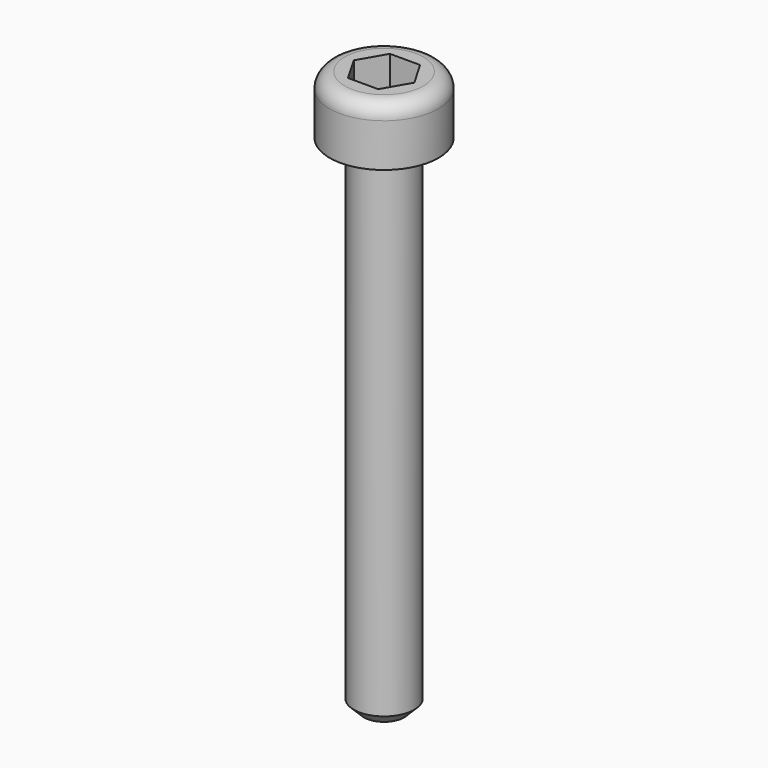
from build123d import *

# Parameters (mm, degrees)
F3_DEPTH = 1.8
F4_R     = 0.75
F5_SIZE  = 0.5


with BuildPart() as f1:
    # F0 (on Front) → F1 (revolve)
    with BuildSketch(Plane.XZ):
        Polygon((0, 27.9), (0, 0), (1.5, 0), (1.5, 25), (2.7, 25), (2.7, 27.9), align=None)
    revolve(axis=Axis((0, 0, 13.95), (0, 0, 1)))

    # F2 (on face) → F3 (cut)
    with BuildSketch(Plane.XY.offset(27.9)):
        Polygon((0.750555, 1.3), (-0.750555, 1.3), (-1.501111, 0), (-0.750555, -1.3), (0.750555, -1.3), (1.501111, 0), align=None)
    extrude(amount=-F3_DEPTH, mode=Mode.SUBTRACT)

    # F4
    f4_edges = [f1.edges().sort_by_distance(p)[0] for p in [
        (-2.7, 0, 27.9),
    ]]
    fillet(f4_edges, radius=F4_R)

    # F5
    f5_edges = [f1.edges().sort_by_distance(p)[0] for p in [
        (-1.5, 0, 0),
    ]]
    chamfer(f5_edges, length=F5_SIZE)


solid = f1.part
